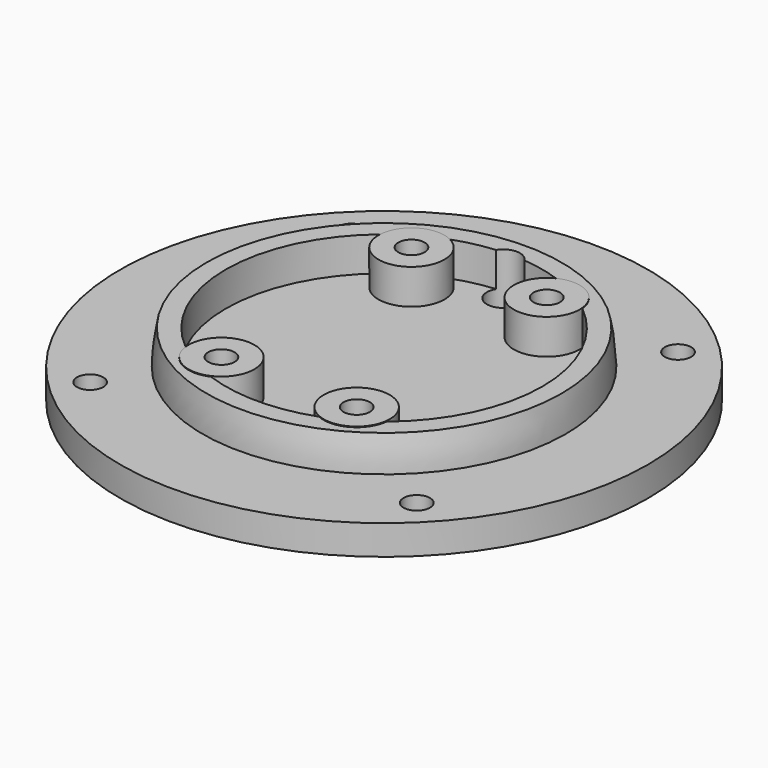
from build123d import *

# Parameters (mm, degrees)
CYLINDER170_R             = 2
CYLINDER170_DEPTH         = 10
CYLINDER171_R             = 2
CYLINDER171_DEPTH         = 10
CYLINDER172_R             = 2
CYLINDER172_DEPTH         = 10
CYLINDER169_R             = 2
CYLINDER169_DEPTH         = 10
FUSION111_PLACEMENT_ANGLE = 45
CYLINDER165_R             = 2.5
CYLINDER165_DEPTH         = 60
CYLINDER161_R             = 2
CYLINDER161_DEPTH         = 10
CYLINDER162_R             = 2
CYLINDER162_DEPTH         = 10
CYLINDER163_R             = 2
CYLINDER163_DEPTH         = 10
CYLINDER164_R             = 2
CYLINDER164_DEPTH         = 10
CYLINDER156_R             = 5.5
CYLINDER156_DEPTH         = 1
CYLINDER157_R             = 5
CYLINDER157_DEPTH         = 5.82
CYLINDER158_R             = 5
CYLINDER158_DEPTH         = 5.82
CYLINDER159_R             = 5
CYLINDER159_DEPTH         = 5.82
CYLINDER160_R             = 5
CYLINDER160_DEPTH         = 5.82
CYLINDER154_R             = 40
CYLINDER154_DEPTH         = 4.5
CYLINDER155_R             = 24
CYLINDER155_DEPTH         = 7


with BuildPart() as obj1:
    # Cylinder170 → Cylinder170 (new body)
    with BuildSketch(Plane(origin=(35, 0, 65), x_dir=(1, 0, 0), z_dir=(0, 0, 1))):
        Circle(CYLINDER170_R)
    extrude(amount=CYLINDER170_DEPTH)


with BuildPart() as obj2:
    # Cylinder171 → Cylinder171 (new body)
    with BuildSketch(Plane(origin=(0, 35, 65), x_dir=(1, 0, 0), z_dir=(0, 0, 1))):
        Circle(CYLINDER171_R)
    extrude(amount=CYLINDER171_DEPTH)


with BuildPart() as obj3:
    # Cylinder172 → Cylinder172 (new body)
    with BuildSketch(Plane(origin=(0, -35, 65), x_dir=(1, 0, 0), z_dir=(0, 0, 1))):
        Circle(CYLINDER172_R)
    extrude(amount=CYLINDER172_DEPTH)


with BuildPart() as fusion111:
    # Cylinder169 → Cylinder169 (new body)
    with BuildSketch(Plane(origin=(-35, 0, 65), x_dir=(1, 0, 0), z_dir=(0, 0, 1))):
        Circle(CYLINDER169_R)
    extrude(amount=CYLINDER169_DEPTH)

    # Fusion111: union obj1, obj2, obj3
    add(obj1.part)
    add(obj2.part)
    add(obj3.part)


with BuildPart() as fusion111_1:
    # Fusion111 placement: moved
    add(fusion111.part.moved(Location((0, -374, -75))).rotate(Axis((0, -374, -75), (0, 0, -1)), FUSION111_PLACEMENT_ANGLE))


with BuildPart() as wirecut004:
    # Cylinder165 → Cylinder165 (new body)
    with BuildSketch(Plane(origin=(134, 32.6, 20), x_dir=(1, 0, 0), z_dir=(0, 0, 1))):
        Circle(CYLINDER165_R)
    extrude(amount=CYLINDER165_DEPTH)


with BuildPart() as cylinder161:
    # Cylinder161 → Cylinder161 (new body)
    with BuildSketch(Plane(origin=(0, -21, 0), x_dir=(1, 0, 0), z_dir=(0, 0, 1))):
        Circle(CYLINDER161_R)
    extrude(amount=CYLINDER161_DEPTH)


with BuildPart() as m3heatsetcuts025:
    # Cylinder162 → Cylinder162 (new body)
    with BuildSketch(Plane(origin=(20.5, -21, 0), x_dir=(1, 0, 0), z_dir=(0, 0, 1))):
        Circle(CYLINDER162_R)
    extrude(amount=CYLINDER162_DEPTH)

    # Fusion103: union Cylinder161
    add(cylinder161.part)


with BuildPart() as m3heatsetcuts025_1:
    # Fusion103 placement: moved
    add(m3heatsetcuts025.part.moved(Location((-5, 39, 70))))


with BuildPart() as cylinder163:
    # Cylinder163 → Cylinder163 (new body)
    with BuildSketch(Plane(origin=(0, -21, 0), x_dir=(1, 0, 0), z_dir=(0, 0, 1))):
        Circle(CYLINDER163_R)
    extrude(amount=CYLINDER163_DEPTH)


with BuildPart() as lightmodulecut005:
    # Cylinder164 → Cylinder164 (new body)
    with BuildSketch(Plane(origin=(20.5, -21, 0), x_dir=(1, 0, 0), z_dir=(0, 0, 1))):
        Circle(CYLINDER164_R)
    extrude(amount=CYLINDER164_DEPTH)

    # Fusion104: union Cylinder163
    add(cylinder163.part)


with BuildPart() as lightmodulecut005_1:
    # Fusion104 placement: moved
    add(lightmodulecut005.part.moved(Location((-5, 3, 70))))

    # Fusion102: union m3HeatSetCuts025
    add(m3heatsetcuts025_1.part)


with BuildPart() as lightmodulecut005_2:
    # Fusion102 placement: moved
    add(lightmodulecut005_1.part.moved(Location((128.75, 10, -1))))

    # Fusion105: union WireCut004
    add(wirecut004.part)


with BuildPart() as cylinder156:
    # Cylinder156 → Cylinder156 (new body)
    with BuildSketch(Plane(origin=(134, 32.6, 65), x_dir=(1, 0, 0), z_dir=(0, 0, 1))):
        Circle(CYLINDER156_R)
    extrude(amount=CYLINDER156_DEPTH)


with BuildPart() as cylinder157:
    # Cylinder157 → Cylinder157 (new body)
    with BuildSketch(Plane(origin=(0, -21, 0), x_dir=(1, 0, 0), z_dir=(0, 0, 1))):
        Circle(CYLINDER157_R)
    extrude(amount=CYLINDER157_DEPTH)


with BuildPart() as m3heatsetcuts021:
    # Cylinder158 → Cylinder158 (new body)
    with BuildSketch(Plane(origin=(20.5, -21, 0), x_dir=(1, 0, 0), z_dir=(0, 0, 1))):
        Circle(CYLINDER158_R)
    extrude(amount=CYLINDER158_DEPTH)

    # Fusion097: union Cylinder157
    add(cylinder157.part)


with BuildPart() as m3heatsetcuts021_1:
    # Fusion097 placement: moved
    add(m3heatsetcuts021.part.moved(Location((-5, 39, 70))))


with BuildPart() as cylinder159:
    # Cylinder159 → Cylinder159 (new body)
    with BuildSketch(Plane(origin=(0, -21, 0), x_dir=(1, 0, 0), z_dir=(0, 0, 1))):
        Circle(CYLINDER159_R)
    extrude(amount=CYLINDER159_DEPTH)


with BuildPart() as m3heatsetcuts023:
    # Cylinder160 → Cylinder160 (new body)
    with BuildSketch(Plane(origin=(20.5, -21, 0), x_dir=(1, 0, 0), z_dir=(0, 0, 1))):
        Circle(CYLINDER160_R)
    extrude(amount=CYLINDER160_DEPTH)

    # Fusion098: union Cylinder159
    add(cylinder159.part)


with BuildPart() as m3heatsetcuts023_1:
    # Fusion098 placement: moved
    add(m3heatsetcuts023.part.moved(Location((-5, 3, 70))))

    # Fusion099: union m3HeatSetCuts021
    add(m3heatsetcuts021_1.part)


with BuildPart() as m3heatsetcuts023_2:
    # Fusion099 placement: moved
    add(m3heatsetcuts023_1.part.moved(Location((128.75, 10, -1))))


with BuildPart() as base014:
    # Cylinder154 → Cylinder154 (new body)
    with BuildSketch(Plane(origin=(136, 0, 65), x_dir=(1, 0, 0), z_dir=(0, 0, 1))):
        Circle(CYLINDER154_R)
    extrude(amount=CYLINDER154_DEPTH)


with BuildPart() as basecut003:
    # Cylinder155 → Cylinder155 (new body)
    with BuildSketch(Plane(origin=(5, 0, 74), x_dir=(1, 0, 0), z_dir=(0, 0, 1))):
        Circle(CYLINDER155_R)
    extrude(amount=CYLINDER155_DEPTH)


with BuildPart() as cut058:
    # Sphere005 → Sphere005 (revolve)
    with BuildSketch(Plane(origin=(5, 0, 74), x_dir=(1, 0, 0), z_dir=(0, -1, 0))):
        with BuildLine():
            ThreePointArc((27.5, 0), (27.349352, 2.874533), (26.899059, 5.717571))
            Line((26.899059, 5.717571), (0, 5.717571))
            Line((0, 5.717571), (0, 0))
            Line((0, 0), (27.5, 0))
        make_face()
    revolve(axis=Axis((5, 0, 74), (0, 0, 1)))

    # Cut053: cut baseCut003
    add(basecut003.part, mode=Mode.SUBTRACT)


with BuildPart() as cut058_1:
    # Cut053 placement: moved
    add(cut058.part.moved(Location((131, 0, -5))))

    # Fusion100: union base014
    add(base014.part)


with BuildPart() as cut058_2:
    # Fusion100 placement: moved
    add(cut058_1.part.moved(Location((-2, 10, 0))))

    # Fusion101: union Cylinder156, m3HeatSetCuts023
    add(cylinder156.part)
    add(m3heatsetcuts023_2.part)

    # Cut054: cut lightModuleCut005
    add(lightmodulecut005_2.part, mode=Mode.SUBTRACT)


with BuildPart() as cut058_3:
    # Cut054 placement: moved
    add(cut058_2.part.moved(Location((-134, -384, -74))))

    # Cut058: cut Fusion111
    add(fusion111_1.part, mode=Mode.SUBTRACT)


solid = cut058_3.part
